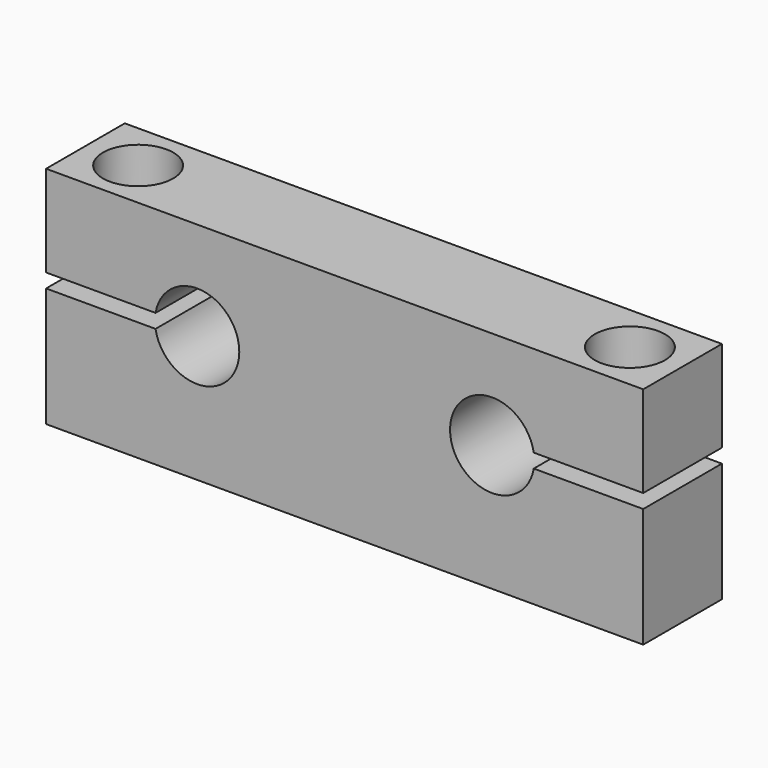
from build123d import *

# Parameters (mm, degrees)
CYLINDER002_R     = 3.3
CYLINDER002_DEPTH = 28
CYLINDER003_R     = 5
CYLINDER003_DEPTH = 6
CYLINDER_R        = 3.3
CYLINDER_DEPTH    = 28
CYLINDER001_R     = 5
CYLINDER001_DEPTH = 6
PAD_DEPTH         = 14


with BuildPart() as cilindro002:
    # Cylinder002 → Cylinder002 (new body)
    with BuildSketch(Plane.XY):
        Circle(CYLINDER002_R)
    extrude(amount=CYLINDER002_DEPTH)


with BuildPart() as obj1:
    # Cylinder003 → Cylinder003 (new body)
    with BuildSketch(Plane.XY.offset(26)):
        Circle(CYLINDER003_R)
    extrude(amount=CYLINDER003_DEPTH)

    # Fusion001: union Cilindro002
    add(cilindro002.part)


with BuildPart() as obj1_1:
    # Fusion001 placement: moved
    add(obj1.part.moved(Location((77.5, 7, 0))))


with BuildPart() as cilindro:
    # Cylinder → Cylinder (new body)
    with BuildSketch(Plane.XY):
        Circle(CYLINDER_R)
    extrude(amount=CYLINDER_DEPTH)


with BuildPart() as tornillos_m6:
    # Cylinder001 → Cylinder001 (new body)
    with BuildSketch(Plane.XY.offset(26)):
        Circle(CYLINDER001_R)
    extrude(amount=CYLINDER001_DEPTH)

    # Fusion: union Cilindro
    add(cilindro.part)


with BuildPart() as tornillos_m6_1:
    # Fusion placement: moved
    add(tornillos_m6.part.moved(Location((7.5, 7, 0))))

    # Fusion002: union obj1
    add(obj1_1.part)


with BuildPart() as obj2:
    # Sketch → Pad (new body)
    with BuildSketch(Plane.XZ):
        with BuildLine():
            Line((0, 0), (85, 0))
            Line((85, 0), (85, 17))
            Line((85, 17), (69.41608, 17))
            ThreePointArc((69.41608, 19), (57.5, 18), (69.41608, 17))
            Line((85, 19), (69.41608, 19))
            Line((85, 32), (85, 19))
            Line((0, 32), (85, 32))
            Line((0, 19), (0, 32))
            Line((0, 19), (15.58392, 19))
            ThreePointArc((15.58392, 17), (27.5, 18), (15.58392, 19))
            Line((0, 17), (15.58392, 17))
            Line((0, 0), (0, 17))
        make_face()
    extrude(amount=-PAD_DEPTH)

    # Cut: cut Tornillos_M6
    add(tornillos_m6_1.part, mode=Mode.SUBTRACT)


solid = obj2.part
